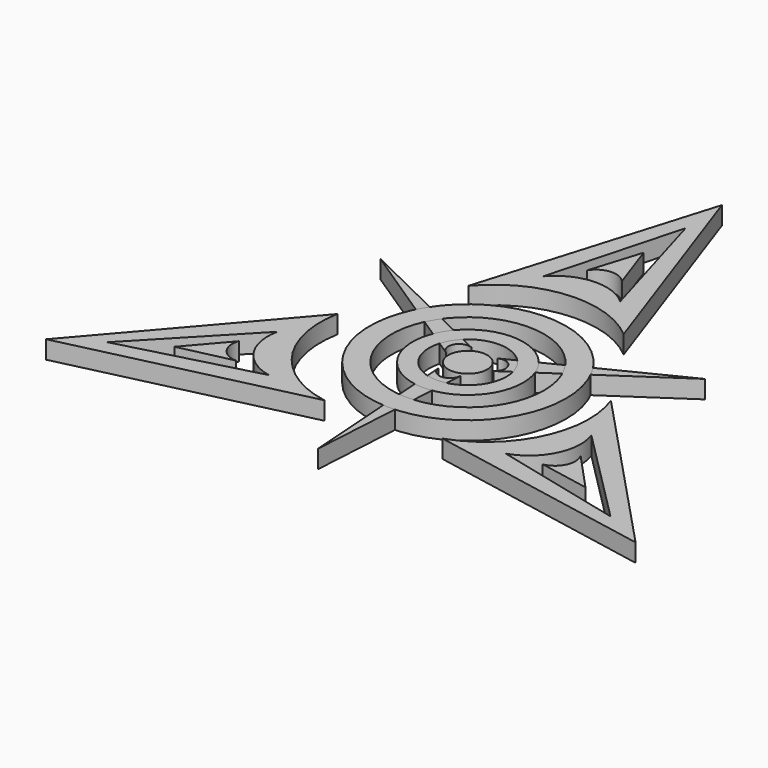
from build123d import *

# Parameters (mm, degrees)
F2_DEPTH = 5
F0_R     = 5.3883314641
F3_DEPTH = 5
F0_R_2   = 15.3491725301
F0_R_3   = 10.7539730603
F0_R_4   = 27.2260872448
F0_R_5   = 21.1434047245


with BuildPart() as f2:
    # F1 (on Top) → F2 (new body)
    with BuildSketch(Plane.XY):
        with BuildLine():
            ThreePointArc((-6.6190029433, 0.6535210892), (-7.5753216914, 4.6520384546), (-3.647696923, 5.867131187))
            Line((-3.647696923, 5.867131187), (-45.0134866516, 25.9885486355))
            Line((-45.0134866516, 25.9885486355), (-6.6190029433, 0.6535210892))
        make_face()
    extrude(amount=F2_DEPTH)


with BuildPart() as f2b:
    # F1 (on Top) → F2, piece 2 (new body)
    with BuildSketch(Plane.XY):
        with BuildLine():
            ThreePointArc((2.7435356065, -6.0589852412), (-0.2411226354, -8.8864402538), (-3.2572361938, -6.0925637942))
            Line((-3.2572361938, -6.0925637942), (0, -51.9770972709))
            Line((0, -51.9770972709), (2.7435356065, -6.0589852412))
        make_face()
    extrude(amount=F2_DEPTH)


with BuildPart() as f2c:
    # F1 (on Top) → F2, piece 3 (new body)
    with BuildSketch(Plane.XY):
        with BuildLine():
            ThreePointArc((3.8754673368, 5.405464152), (7.8164443267, 4.2344017993), (6.9049331168, 0.2254326071))
            Line((6.9049331168, 0.2254326071), (45.0134866516, 25.9885486355))
            Line((45.0134866516, 25.9885486355), (3.8754673368, 5.405464152))
        make_face()
    extrude(amount=F2_DEPTH)


with BuildPart() as f3:
    # F0 (on Top) → F3 (new body)
    with BuildSketch(Plane.XY):
        Circle(F0_R)
    extrude(amount=F3_DEPTH)


with BuildPart() as f3b:
    # F0 (on Top) → F3, piece 2 (new body)
    with BuildSketch(Plane.XY):
        Circle(F0_R_2)
        Circle(F0_R_3, mode=Mode.SUBTRACT)
    extrude(amount=F3_DEPTH)


with BuildPart() as f3c:
    # F0 (on Top) → F3, piece 3 (new body)
    with BuildSketch(Plane.XY):
        Circle(F0_R_4)
        Circle(F0_R_5, mode=Mode.SUBTRACT)
    extrude(amount=F3_DEPTH)


with BuildPart() as f3d:
    # F0 (on Top) → F3, piece 4 (new body)
    with BuildSketch(Plane.XY):
        with BuildLine():
            ThreePointArc((-13.1320310757, -33.3381593227), (-31.6122736468, -21.472525362), (-36.2213179469, 0))
            Line((-36.2213179469, 0), (-78.0706480145, -48.6348122358))
            Line((-78.0706480145, -48.6348122358), (-13.1320310757, -33.3381593227))
        make_face()
        with BuildLine():
            Line((-66.8146163225, -41.4194054902), (-41.1277897656, -14.5781142637))
            ThreePointArc((-41.1277897656, -14.5781142637), (-39.0703952793, -25.4525283991), (-29.8717617989, -31.6064618528))
            Line((-29.8717617989, -31.6064618528), (-66.8146163225, -41.4194054902))
        make_face(mode=Mode.SUBTRACT)
    extrude(amount=F3_DEPTH)


with BuildPart() as f3e:
    # F0 (on Top) → F3, piece 5 (new body)
    with BuildSketch(Plane.XY):
        with BuildLine():
            ThreePointArc((-39.6847091615, -30.7406131178), (-44.2311292925, -28.337826886), (-44.8797978461, -23.2365969568))
            Line((-44.8797978461, -23.2365969568), (-54.1516726204, -34.0118205505))
            Line((-54.1516726204, -34.0118205505), (-39.6847091615, -30.7406131178))
        make_face()
    extrude(amount=F3_DEPTH)


with BuildPart() as f3f:
    # F0 (on Top) → F3, piece 6 (new body)
    with BuildSketch(Plane.XY):
        with BuildLine():
            ThreePointArc((-22.3056773511, 28.0417521762), (-2.7896156235, 38.1132947305), (18.1106589735, 31.3685815006))
            Line((18.1106589735, 31.3685815006), (-3.0836588972, 91.9285705884))
            Line((-3.0836588972, 91.9285705884), (-22.3056773511, 28.0417521762))
        make_face()
        with BuildLine():
            Line((-2.4629492029, 78.5728578245), (7.9388775912, 42.9067678704))
            ThreePointArc((7.9388775912, 42.9067678704), (-2.5073385445, 46.5622190473), (-12.4361179888, 41.6729355))
            Line((-12.4361179888, 41.6729355), (-2.4629492029, 78.5728578245))
        make_face(mode=Mode.SUBTRACT)
    extrude(amount=F3_DEPTH)


with BuildPart() as f3g:
    # F0 (on Top) → F3, piece 7 (new body)
    with BuildSketch(Plane.XY):
        with BuildLine():
            ThreePointArc((-6.7797973072, 49.7382728346), (-2.4257133251, 52.4741950484), (2.3164156609, 50.4853435298))
            Line((2.3164156609, 50.4853435298), (-2.3792643155, 63.902634422))
            Line((-2.3792643155, 63.902634422), (-6.7797973072, 49.7382728346))
        make_face()
    extrude(amount=F3_DEPTH)


with BuildPart() as f3h:
    # F0 (on Top) → F3, piece 8 (new body)
    with BuildSketch(Plane.XY):
        with BuildLine():
            ThreePointArc((35.4377084267, 5.2964071466), (34.4018892703, -16.6407693686), (18.1106589735, -31.3685815006))
            Line((18.1106589735, -31.3685815006), (81.1543069118, -43.2937583526))
            Line((81.1543069118, -43.2937583526), (35.4377084267, 5.2964071466))
        make_face()
        with BuildLine():
            Line((69.2775655254, -37.1534523343), (33.1889121744, -28.3286536067))
            ThreePointArc((33.1889121744, -28.3286536067), (41.5777338238, -21.1096906482), (42.3078797877, -10.0664736472))
            Line((42.3078797877, -10.0664736472), (69.2775655254, -37.1534523343))
        make_face(mode=Mode.SUBTRACT)
    extrude(amount=F3_DEPTH)


with BuildPart() as f3i:
    # F0 (on Top) → F3, piece 9 (new body)
    with BuildSketch(Plane.XY):
        with BuildLine():
            ThreePointArc((46.4645064687, -18.9976597168), (46.6568426176, -24.1363681623), (42.5633821852, -27.248746573))
            Line((42.5633821852, -27.248746573), (56.5309369359, -29.8908138714))
            Line((56.5309369359, -29.8908138714), (46.4645064687, -18.9976597168))
        make_face()
    extrude(amount=F3_DEPTH)


solid = Compound([f2.part, f2b.part, f2c.part, f3.part, f3b.part, f3c.part, f3d.part, f3e.part, f3f.part, f3g.part, f3h.part, f3i.part])
